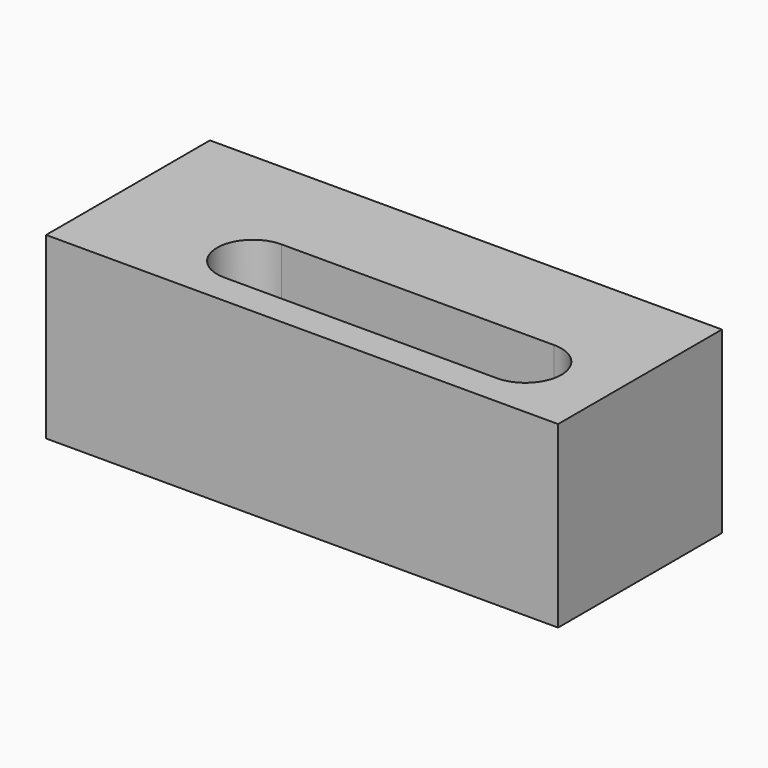
from build123d import *

# Parameters (mm, degrees)
F0_W     = 50
F0_H     = 20
F1_DEPTH = 17.5
F3_DEPTH = 50
F4_W     = 2
F4_H     = 2
F5_DEPTH = 2
F6_W     = 0.5
F6_H     = 0.45
F7_DEPTH = 0.4


with BuildPart() as f1:
    # F0 (on Top) → F1 (new body)
    with BuildSketch(Plane.XY):
        with Locations((10, 0)):
            Rectangle(F0_W, F0_H)
    extrude(amount=F1_DEPTH)

    # F2 (on Top) → F3 (cut)
    with BuildSketch(Plane.XY):
        with BuildLine():
            ThreePointArc((0, 0), (-3.5, -3.5), (0, -7))
            Line((0, -7), (26.61685, -7))
            ThreePointArc((26.61685, -7), (30.11685, -3.5), (26.61685, 0))
            Line((26.61685, 0), (0, 0))
        make_face()
    extrude(amount=F3_DEPTH, mode=Mode.SUBTRACT)

    # F4 (on face) → F5 (join)
    with BuildSketch(Plane(origin=(0, 0, 0), x_dir=(1, 0, 0), z_dir=(0, 0, -1))):
        with Locations((-1, -4)):
            Rectangle(F4_W, F4_H)
    extrude(amount=F5_DEPTH)

    # F6 (on face) → F7 (cut)
    with BuildSketch(Plane(origin=(0, 0, -2), x_dir=(1, 0, 0), z_dir=(0, 0, -1))):
        with Locations((-1.75, -3.725)):
            Rectangle(F6_W, F6_H)
    extrude(amount=-F7_DEPTH, mode=Mode.SUBTRACT)


solid = f1.part
